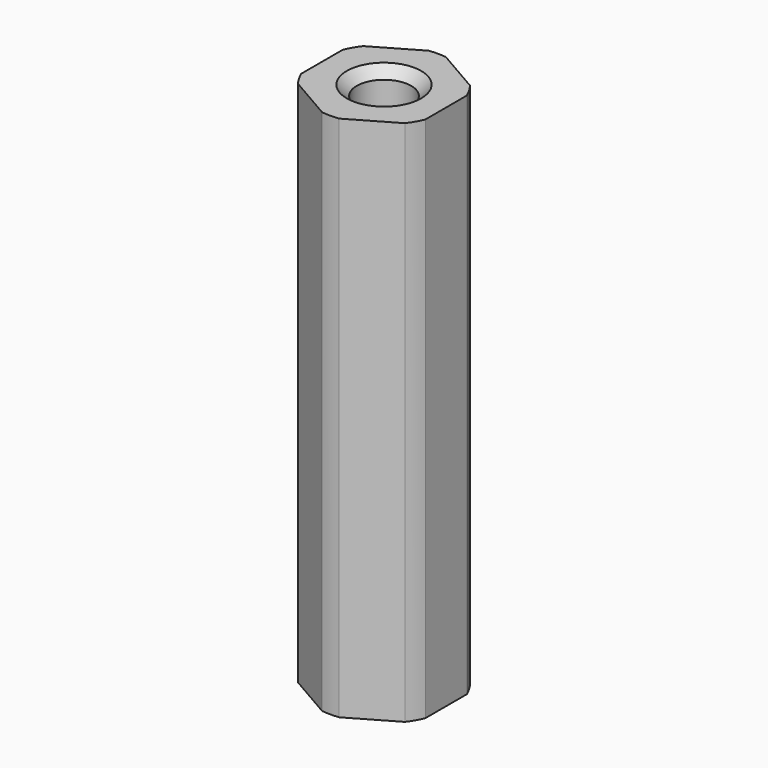
from build123d import *

# Parameters (mm, degrees)
F0_R     = 2.794
F1_DEPTH = 53.975
F2_SIZE  = 1.016


with BuildPart() as f1:
    # F0 (on Top) → F1 (new body)
    with BuildSketch(Plane.XY):
        with BuildLine():
            Line((6.35, -2.656821), (6.35, 2.656821))
            ThreePointArc((6.35, 2.656821), (5.961199, 3.4417), (5.475874, 4.170851))
            Line((5.475874, 4.170851), (0.874126, 6.827672))
            ThreePointArc((0.874126, 6.827672), (0, 6.8834), (-0.874126, 6.827672))
            Line((-0.874126, 6.827672), (-5.475874, 4.170851))
            ThreePointArc((-5.475874, 4.170851), (-5.961199, 3.4417), (-6.35, 2.656821))
            Line((-6.35, 2.656821), (-6.35, -2.656821))
            ThreePointArc((-6.35, -2.656821), (-5.961199, -3.4417), (-5.475874, -4.170851))
            Line((-5.475874, -4.170851), (-0.874126, -6.827672))
            ThreePointArc((-0.874126, -6.827672), (0, -6.8834), (0.874126, -6.827672))
            Line((0.874126, -6.827672), (5.475874, -4.170851))
            ThreePointArc((5.475874, -4.170851), (5.961199, -3.4417), (6.35, -2.656821))
        make_face()
        Circle(F0_R, mode=Mode.SUBTRACT)
    extrude(amount=F1_DEPTH)

    # F2
    f2_edges = [f1.edges().sort_by_distance(p)[0] for p in [
        (-2.794, 0, 53.975),
        (-2.794, 0, 0),
    ]]
    chamfer(f2_edges, length=F2_SIZE)


solid = f1.part
